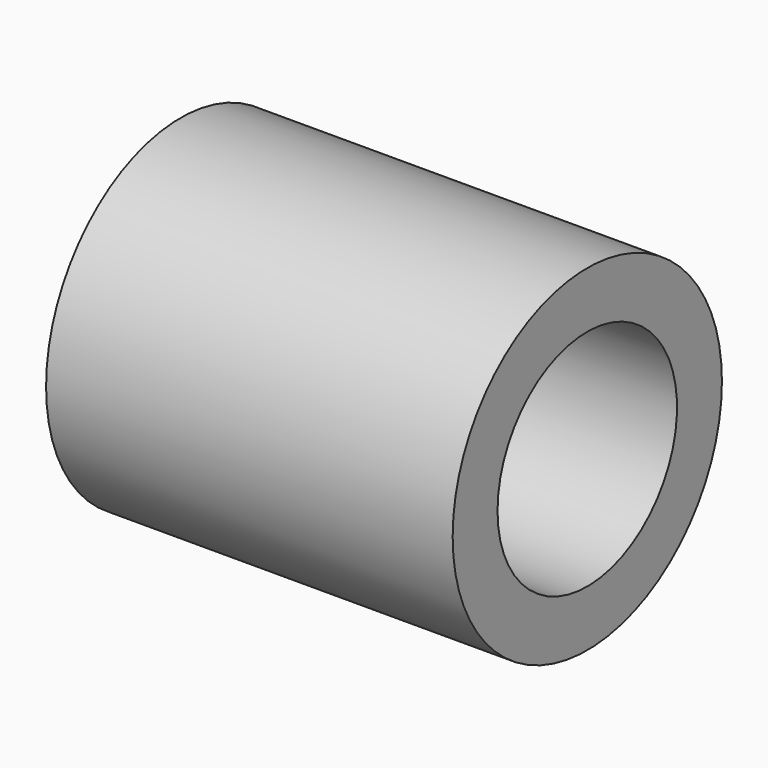
from build123d import *

# Parameters (mm, degrees)
F0_R     = 19.05
F1_DEPTH = 46.0248
F2_D     = 25.4
F2_DEPTH = 46.0248


with BuildPart() as f1:
    # F0 (on Right) → F1 (new body)
    with BuildSketch(Plane.YZ):
        Circle(F0_R)
    extrude(amount=F1_DEPTH)

    # F2
    with Locations(Plane(origin=(0, 0, 0), x_dir=(0, 1, 0), z_dir=(-1, 0, 0))):
        with Locations((0, 0)):
            Hole(F2_D / 2, depth=F2_DEPTH)


solid = f1.part
